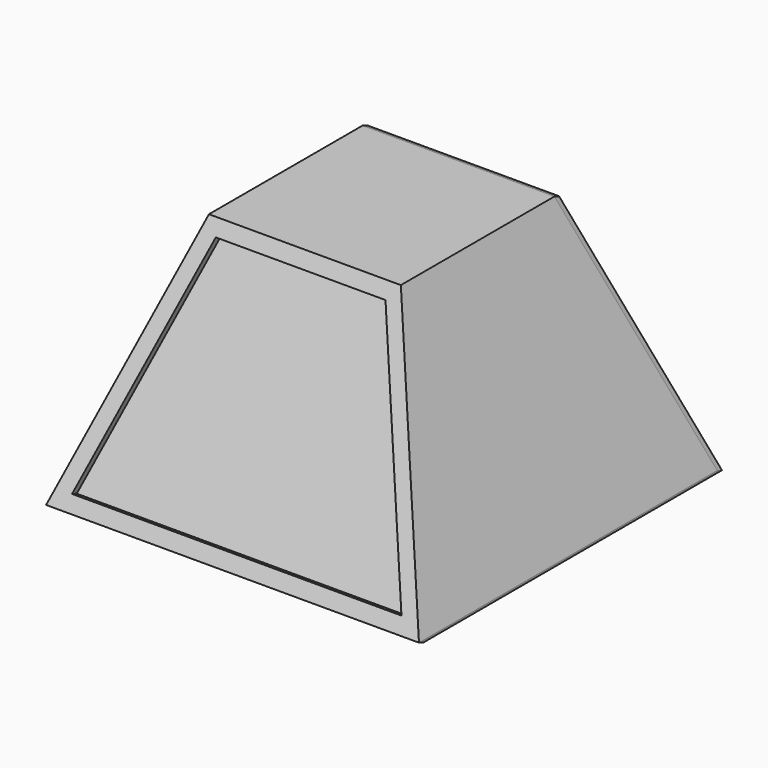
from build123d import *

# Parameters (mm, degrees)
F0_W       = 152.4
F0_H       = 152.4
F1_DEPTH   = 101.6
F1_TAPER   = 20
F1_FACE1_W = 152.4
F1_FACE1_H = 152.4
F1_FACE2_W = 78.4412483971
F1_FACE2_H = 78.4412483971
F3_DEPTH   = 2.54


with BuildPart() as f1:
    # F0 (on Top) → F1 (new body)
    with BuildSketch(Plane.XY):
        Rectangle(F0_W, F0_H)
    extrude(amount=F1_DEPTH, taper=F1_TAPER)

    # F2 (on face) + F1_face1 (on face) + F1_face2 (on face) + F1_face3 (on face) + F1_face4 (on face) → F3 (join)
    with BuildSketch(Plane(origin=(0, -67.2862932828, 24.4902079291), x_dir=(1, 0, 0), z_dir=(0, -0.9396926208, 0.3420201433))):
        Polygon((39.2206241986, 82.0585267621), (-39.2206241986, 82.0585267621), (-76.2, -26.0619349214), (76.2, -26.0619349214), align=None)
        Polygon((-67.3170380488, -19.7119357924), (-34.6813174718, 75.7085276331), (34.6813174718, 75.7085276331), (67.3170380488, -19.7119357924), align=None, mode=Mode.SUBTRACT)
    with BuildSketch(Plane(origin=(0, 0, 0), x_dir=(1, 0, 0), z_dir=(0, 0, -1))):
        Rectangle(F1_FACE1_W, F1_FACE1_H)
    with BuildSketch(Plane.XY.offset(101.6)):
        Rectangle(F1_FACE2_W, F1_FACE2_H)
    with BuildSketch(Plane(origin=(0, 59.6849364268, 45.3747642481), x_dir=(-1, 0, 0), z_dir=(0, 0.9396926208, 0.3420201433))):
        Polygon((-39.2206241986, 59.8336461394), (-76.2, -48.2868155442), (76.2, -48.2868155442), (39.2206241986, 59.8336461394), align=None)
    with BuildSketch(Plane(origin=(59.6849364268, 0, 45.3747642481), x_dir=(0, 1, 0), z_dir=(0.9396926208, 0, 0.3420201433))):
        Polygon((-39.2206241986, 59.8336461394), (-76.2, -48.2868155442), (76.2, -48.2868155442), (39.2206241986, 59.8336461394), align=None)
    extrude(amount=F3_DEPTH, dir=(0, -0.9396926208, 0.3420201433))


solid = f1.part
